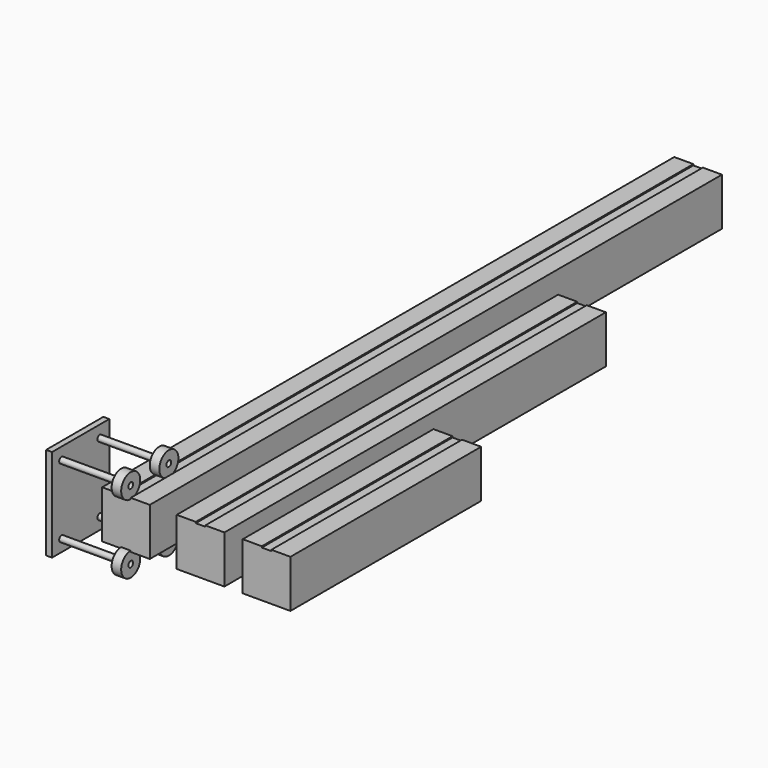
from build123d import *

# Parameters (mm, degrees)
F1_DEPTH  = 600
F2_DEPTH  = 400
F3_DEPTH  = 200
F6_R      = 2.5
F7_DEPTH  = 50
F10_W     = 60
F10_H     = 78
F10_R     = 2.5
F11_DEPTH = 5


with BuildPart() as f1:
    # F0 (on Front) → F1 (new body)
    with BuildSketch(Plane.XZ):
        Polygon((-66.590021193, 20), (-82.590021193, 20), (-82.590021193, -20), (-42.590021193, -20), (-42.590021193, 20), (-58.590021193, 20), (-58.590021193, 19), (-66.590021193, 19), align=None)
    extrude(amount=-F1_DEPTH)


with BuildPart() as f2:
    # F0 (on Front) → F2 (new body)
    with BuildSketch(Plane.XZ):
        Polygon((-4, 20), (-20, 20), (-20, -20), (20, -20), (20, 20), (4, 20), (4, 19), (-4, 19), align=None)
    extrude(amount=-F2_DEPTH)


with BuildPart() as f3:
    # F0 (on Front) → F3 (new body)
    with BuildSketch(Plane.XZ):
        Polygon((51.4000031948, 20), (35.4000031948, 20), (35.4000031948, -20), (75.4000031948, -20), (75.4000031948, 20), (59.4000031948, 20), (59.4000031948, 19), (51.4000031948, 19), align=None)
    extrude(amount=-F3_DEPTH)


with BuildPart() as f5:
    # F4 (on face) → F5 (revolve)
    with BuildSketch(Plane.XZ):
        Polygon((-66.590021193, 20), (-66.590021193, 19), (-58.590021193, 19), (-58.590021193, 20), (-58.590021193, 26.5), (-66.590021193, 26.5), align=None)
    revolve(axis=Axis((-62.452737242, 0, 29), (1, 0, 0)))


with BuildPart() as f7:
    # F6 (on face) → F7 (new body)
    with BuildSketch(Plane(origin=(-66.590021193, 0, 0), x_dir=(0, -1, 0), z_dir=(-1, 0, 0))):
        with Locations((0, 29)):
            Circle(F6_R)
    extrude(amount=F7_DEPTH)


with BuildPart() as f8_1:
    # F8: instance of F7
    add(f7.part.mirror(Plane.XY))


with BuildPart() as f8_2:
    # F8: instance of F5
    add(f5.part.mirror(Plane.XY))


with BuildPart() as f9_1:
    # F9: copy of F5
    add(f5.part.moved(Location((0, 40, 0))))


with BuildPart() as f9_2:
    # F9: copy of F7
    add(f7.part.moved(Location((0, 40, 0))))


with BuildPart() as f9_3:
    # F9: copy of F8_1
    add(f8_1.part.moved(Location((0, 40, 0))))


with BuildPart() as f9_4:
    # F9: copy of F8_2
    add(f8_2.part.moved(Location((0, 40, 0))))


with BuildPart() as f11:
    # F10 (on face) → F11 (new body)
    with BuildSketch(Plane(origin=(-116.590021193, 0, 0), x_dir=(0, -1, 0), z_dir=(-1, 0, 0))):
        with Locations((-20, 0)):
            Rectangle(F10_W, F10_H)
        with Locations((-40, -29)):
            Circle(F10_R, mode=Mode.SUBTRACT)
        with Locations((0, -29)):
            Circle(F10_R, mode=Mode.SUBTRACT)
        with Locations((-40, 29)):
            Circle(F10_R, mode=Mode.SUBTRACT)
        with Locations((0, 29)):
            Circle(F10_R, mode=Mode.SUBTRACT)
    extrude(amount=F11_DEPTH)


solid = Compound([f1.part, f2.part, f3.part, f5.part, f7.part, f8_1.part, f8_2.part, f9_1.part, f9_2.part, f9_3.part, f9_4.part, f11.part])
